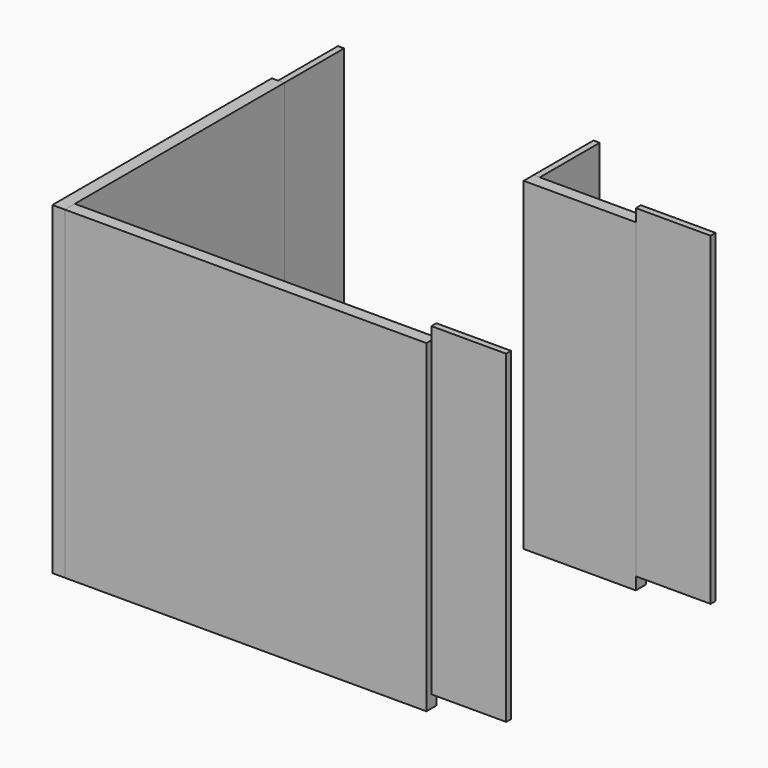
from build123d import *

# Parameters (mm, degrees)
BOX010_W     = 2.5
BOX010_H     = 35
BOX010_DEPTH = 125
BOX009_W     = 2.5
BOX009_H     = 60
BOX009_DEPTH = 125
BOX015_W     = 150
BOX015_H     = 5
BOX015_DEPTH = 130
BOX013_W     = 45
BOX013_H     = 5
BOX013_DEPTH = 130
BOX004_W     = 5
BOX004_H     = 110
BOX004_DEPTH = 130
BOX007_W     = 30
BOX007_H     = 2.5
BOX007_DEPTH = 130
BOX006_W     = 30
BOX006_H     = 2.5
BOX006_DEPTH = 130


with BuildPart() as cube010:
    # Box010 → Box010 (new body)
    with BuildSketch(Plane(origin=(105, 105, 5), x_dir=(1, 0, 0), z_dir=(0, 0, 1))):
        with Locations((1.25, 17.5)):
            Rectangle(BOX010_W, BOX010_H)
    extrude(amount=BOX010_DEPTH)


with BuildPart() as cube009:
    # Box009 → Box009 (new body)
    with BuildSketch(Plane(origin=(2.5, 80, 5), x_dir=(1, 0, 0), z_dir=(0, 0, 1))):
        with Locations((1.25, 30)):
            Rectangle(BOX009_W, BOX009_H)
    extrude(amount=BOX009_DEPTH)


with BuildPart() as cube015:
    # Box015 → Box015 (new body)
    with BuildSketch(Plane.XY):
        with Locations((75, 2.5)):
            Rectangle(BOX015_W, BOX015_H)
    extrude(amount=BOX015_DEPTH)


with BuildPart() as cube013:
    # Box013 → Box013 (new body)
    with BuildSketch(Plane(origin=(105, 105, 0), x_dir=(1, 0, 0), z_dir=(0, 0, 1))):
        with Locations((22.5, 2.5)):
            Rectangle(BOX013_W, BOX013_H)
    extrude(amount=BOX013_DEPTH)


with BuildPart() as fusion002:
    # Box004 → Box004 (new body)
    with BuildSketch(Plane.XY):
        with Locations((2.5, 55)):
            Rectangle(BOX004_W, BOX004_H)
    extrude(amount=BOX004_DEPTH)

    # Fusion002: union Cube013
    add(cube013.part)


with BuildPart() as cube007:
    # Box007 → Box007 (new body)
    with BuildSketch(Plane(origin=(210, 105, 5), x_dir=(1, 0, 0), z_dir=(0, 0, 1))):
        with Locations((15, 1.25)):
            Rectangle(BOX007_W, BOX007_H)
    extrude(amount=BOX007_DEPTH)


with BuildPart() as fusion:
    # Box006 → Box006 (new body)
    with BuildSketch(Plane(origin=(210, 2.5, 5), x_dir=(1, 0, 0), z_dir=(0, 0, 1))):
        with Locations((15, 1.25)):
            Rectangle(BOX006_W, BOX006_H)
    extrude(amount=BOX006_DEPTH)

    # Fusion: union Cube007
    add(cube007.part)


with BuildPart() as fusion_1:
    # Fusion placement: moved
    add(fusion.part.moved(Location((-59.995304, -0.01017, 0))))


solid = Compound([cube010.part, cube009.part, cube015.part, fusion002.part, fusion_1.part])
